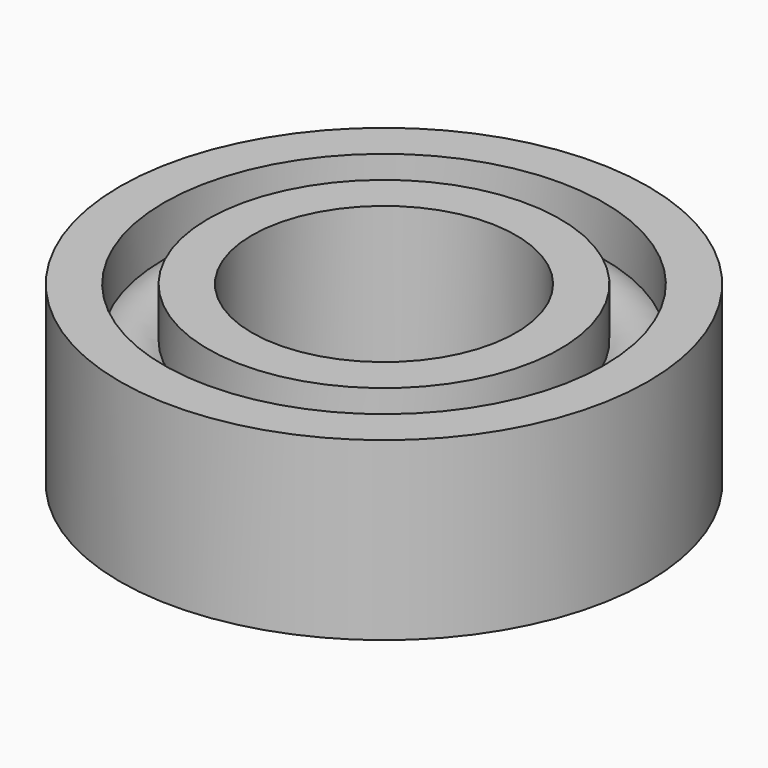
from build123d import *


with BuildPart() as f1:
    # F0 (on Front) → F1 (revolve)
    with BuildSketch(Plane.XZ):
        with BuildLine():
            Line((-4, -2), (-3, -2))
            Line((-3, -2), (-3, 2))
            Line((-3, 2), (-4, 2))
            Line((-4, 2), (-4, 0.866025))
            ThreePointArc((-4, 0.866025), (-4.5, 1), (-5, 0.866025))
            Line((-5, 0.866025), (-5, 2))
            Line((-5, 2), (-6, 2))
            Line((-6, 2), (-6, -2))
            Line((-6, -2), (-5, -2))
            Line((-5, -2), (-5, -0.866025))
            ThreePointArc((-5, -0.866025), (-4.5, -1), (-4, -0.866025))
            Line((-4, -0.866025), (-4, -2))
        make_face()
    revolve(axis=Axis((0, 0, 0.304353), (0, 0, -1)))


solid = f1.part
